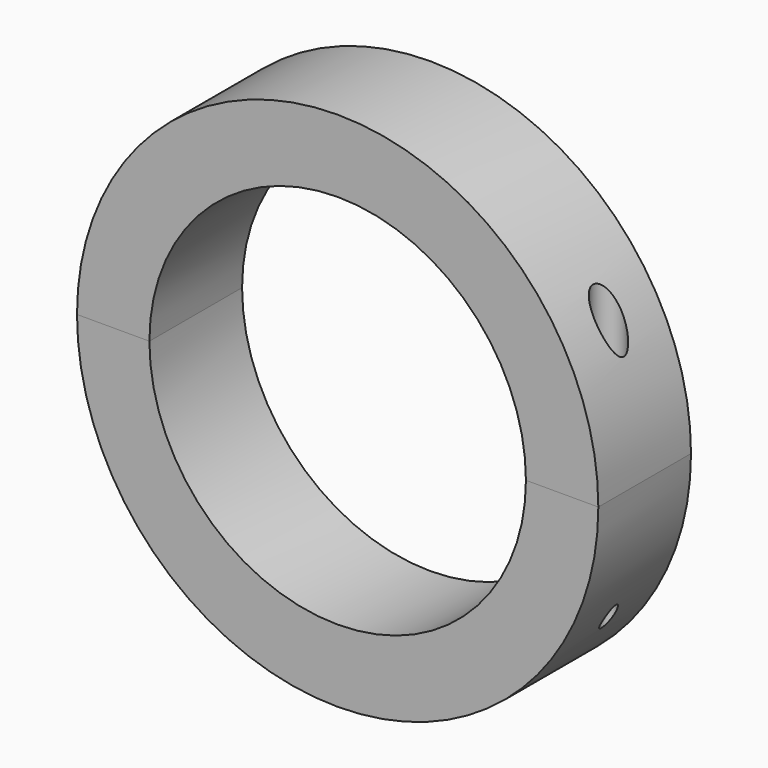
from build123d import *

# Parameters (mm, degrees)
F1_DEPTH  = 25.4
F3_DEPTH  = 50.8
F5_D      = 6.5278
F7_D      = 8.4328
F11_D     = 13.49248
F11_DEPTH = 88.9
F11_TIP   = 4.0535499425


with BuildPart() as f1:
    # F0 (on Front) → F1 (new body, symmetric)
    with BuildSketch(Plane.XZ):
        with BuildLine():
            Line((82.55, 0), (114.3, 0))
            ThreePointArc((114.3, 0), (0, 114.3), (-114.3, 0))
            Line((-114.3, 0), (-82.55, 0))
            ThreePointArc((-82.55, 0), (0, 82.55), (82.55, 0))
        make_face()
    extrude(amount=F1_DEPTH, both=True)

    # F7 (through all)
    with Locations(Plane(origin=(0, 0, 0), x_dir=(1, 0, 0), z_dir=(0, 0, -1))):
        with Locations((-98.425, 0), (98.425, 0)):
            Hole(F7_D / 2)

    # F11
    with Locations(Plane.XY.offset(114.3)):
        with Locations((-98.425, 0), (98.425, 0)):
            Hole(F11_D / 2, depth=F11_DEPTH)
            with Locations((0, 0, -(F11_DEPTH + F11_TIP / 2))):  # 118° drill point
                Cone(0, F11_D / 2, F11_TIP, mode=Mode.SUBTRACT)


with BuildPart() as f3:
    # F2 (on face) → F3 (new body, through all)
    with BuildSketch(Plane.XZ.offset(25.4)):
        with BuildLine():
            ThreePointArc((82.55, 0), (0, -82.55), (-82.55, 0))
            Line((-82.55, 0), (-114.3, 0))
            ThreePointArc((-114.3, 0), (0, -114.3), (114.3, 0))
            Line((114.3, 0), (82.55, 0))
        make_face()
    extrude(amount=-F3_DEPTH)

    # F5 (through all)
    with Locations(Plane.XY):
        with Locations((-98.425, 0), (98.425, 0)):
            Hole(F5_D / 2)


solid = Compound([f1.part, f3.part])
